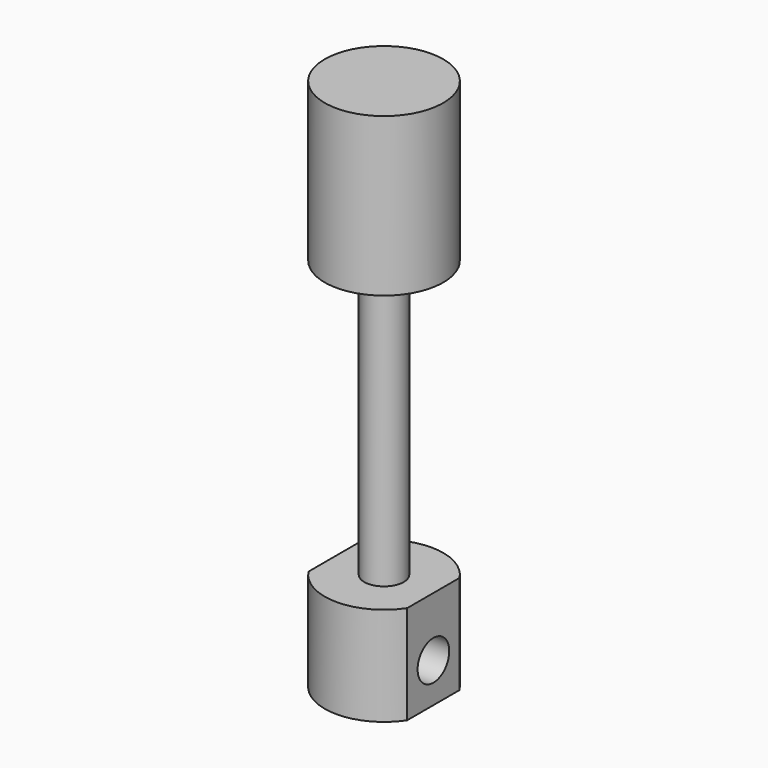
from build123d import *

# Parameters (mm, degrees)
F3_DEPTH = 6
F5_DEPTH = 6
F6_R     = 1
F7_DEPTH = 5.501


with BuildPart() as f1:
    # F0 (on Right) → F1 (revolve)
    with BuildSketch(Plane.YZ):
        Polygon((0, 27), (0, 0), (3, 0), (3, 5), (1, 5), (1, 19), (3, 19), (3, 27), align=None)
    revolve(axis=Axis((0, 0, 14.70128), (0, 0, 1)))

    # F2 (on face) → F3 (cut)
    with BuildSketch(Plane(origin=(0, 0, 0), x_dir=(1, 0, 0), z_dir=(0, 0, -1))):
        with BuildLine():
            Line((2.5, -2.987541), (3.128111, -2.987541))
            Line((3.128111, -2.987541), (3.128111, 3.060273))
            Line((3.128111, 3.060273), (2.5, 3.060273))
            Line((2.5, 3.060273), (2.5, 1.658312))
            ThreePointArc((2.5, 1.658312), (2.872281, 0.866025), (3, 0))
            ThreePointArc((3, 0), (2.872281, -0.866025), (2.5, -1.658312))
            Line((2.5, -1.658312), (2.5, -2.987541))
        make_face()
        with BuildLine():
            Line((2.5, 1.658312), (2.5, -1.658312))
            ThreePointArc((2.5, -1.658312), (2.872281, -0.866025), (3, 0))
            ThreePointArc((3, 0), (2.872281, 0.866025), (2.5, 1.658312))
        make_face()
    extrude(amount=-F3_DEPTH, mode=Mode.SUBTRACT)

    # F4 (on face) → F5 (cut)
    with BuildSketch(Plane(origin=(0, 0, 0), x_dir=(1, 0, 0), z_dir=(0, 0, -1))):
        with BuildLine():
            Line((-5.039785, -4.02743), (-2.5, -4.02743))
            Line((-2.5, -4.02743), (-2.5, -1.658312))
            ThreePointArc((-2.5, -1.658312), (-3, 0), (-2.5, 1.658312))
            Line((-2.5, 1.658312), (-2.5, 4.430752))
            Line((-2.5, 4.430752), (-5.039785, 4.430752))
            Line((-5.039785, 4.430752), (-5.039785, -4.02743))
        make_face()
        with BuildLine():
            ThreePointArc((-2.5, 1.658312), (-3, 0), (-2.5, -1.658312))
            Line((-2.5, -1.658312), (-2.5, 1.658312))
        make_face()
    extrude(amount=-F5_DEPTH, mode=Mode.SUBTRACT)

    # F6 (on face) → F7 (cut, through all)
    with BuildSketch(Plane.YZ.offset(2.5)):
        with Locations((0, 2)):
            Circle(F6_R)
    extrude(amount=-F7_DEPTH, mode=Mode.SUBTRACT)


solid = f1.part
